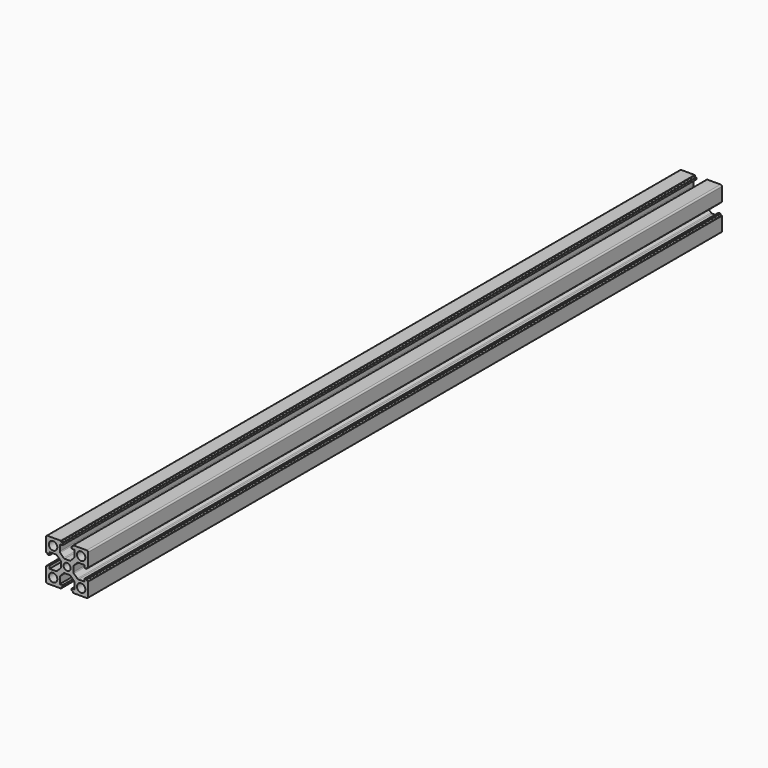
from build123d import *

# Parameters (mm, degrees)
F0_R     = 3
F0_R_2   = 2.5
F1_DEPTH = 565


with BuildPart() as f1:
    # F0 (on Front) → F1 (new body)
    with BuildSketch(Plane.XZ):
        with BuildLine():
            Line((-4.5, 15), (-14, 15))
            ThreePointArc((-14, 15), (-14.707107, 14.707107), (-15, 14))
            Line((-15, 14), (-15, 4.5))
            ThreePointArc((-15, 4.5), (-14.912132, 4.287868), (-14.7, 4.2))
            Line((-14.7, 4.2), (-14.5, 4.2))
            ThreePointArc((-14.5, 4.2), (-14.146447, 4.053553), (-14, 3.7))
            Line((-14, 3.7), (-14, 3.55))
            ThreePointArc((-14, 3.55), (-13.912132, 3.337868), (-13.7, 3.25))
            Line((-13.7, 3.25), (-12.5, 3.25))
            Line((-12.5, 3.25), (-12.5, 5.25))
            Line((-12.5, 5.25), (-8.004644, 5.25))
            ThreePointArc((-8.004644, 5.25), (-7.629545, 5.176985), (-7.309222, 4.968602))
            Line((-7.309222, 4.968602), (-4.804579, 2.544753))
            ThreePointArc((-4.804579, 2.544753), (-4.579288, 2.216394), (-4.5, 1.826151))
            Line((-4.5, 1.826151), (-4.5, -1.826151))
            ThreePointArc((-4.5, -1.826151), (-4.579288, -2.216394), (-4.804579, -2.544753))
            Line((-4.804579, -2.544753), (-7.309222, -4.968602))
            ThreePointArc((-7.309222, -4.968602), (-7.629545, -5.176985), (-8.004644, -5.25))
            Line((-8.004644, -5.25), (-12.5, -5.25))
            Line((-12.5, -5.25), (-12.5, -3.25))
            Line((-12.5, -3.25), (-13.7, -3.25))
            ThreePointArc((-13.7, -3.25), (-13.912132, -3.337868), (-14, -3.55))
            Line((-14, -3.55), (-14, -3.7))
            ThreePointArc((-14, -3.7), (-14.146447, -4.053553), (-14.5, -4.2))
            Line((-14.5, -4.2), (-14.7, -4.2))
            ThreePointArc((-14.7, -4.2), (-14.912132, -4.287868), (-15, -4.5))
            Line((-15, -4.5), (-15, -14))
            ThreePointArc((-15, -14), (-14.707107, -14.707107), (-14, -15))
            Line((-14, -15), (-4.5, -15))
            ThreePointArc((-4.5, -15), (-4.287868, -14.912132), (-4.2, -14.7))
            Line((-4.2, -14.7), (-4.2, -14.5))
            ThreePointArc((-4.2, -14.5), (-4.053553, -14.146447), (-3.7, -14))
            Line((-3.7, -14), (-3.55, -14))
            ThreePointArc((-3.55, -14), (-3.337868, -13.912132), (-3.25, -13.7))
            Line((-3.25, -13.7), (-3.25, -12.5))
            Line((-3.25, -12.5), (-5.25, -12.5))
            Line((-5.25, -12.5), (-5.25, -8.004644))
            ThreePointArc((-5.25, -8.004644), (-5.176985, -7.629545), (-4.968602, -7.309222))
            Line((-4.968602, -7.309222), (-2.544753, -4.804579))
            ThreePointArc((-2.544753, -4.804579), (-2.216394, -4.579288), (-1.826151, -4.5))
            Line((-1.826151, -4.5), (1.826151, -4.5))
            ThreePointArc((1.826151, -4.5), (2.216394, -4.579288), (2.544753, -4.804579))
            Line((2.544753, -4.804579), (4.968602, -7.309222))
            ThreePointArc((4.968602, -7.309222), (5.176985, -7.629545), (5.25, -8.004644))
            Line((5.25, -8.004644), (5.25, -12.5))
            Line((5.25, -12.5), (3.25, -12.5))
            Line((3.25, -12.5), (3.25, -13.7))
            ThreePointArc((3.25, -13.7), (3.337868, -13.912132), (3.55, -14))
            Line((3.55, -14), (3.7, -14))
            ThreePointArc((3.7, -14), (4.053553, -14.146447), (4.2, -14.5))
            Line((4.2, -14.5), (4.2, -14.7))
            ThreePointArc((4.2, -14.7), (4.287868, -14.912132), (4.5, -15))
            Line((4.5, -15), (14, -15))
            ThreePointArc((14, -15), (14.707107, -14.707107), (15, -14))
            Line((15, -14), (15, -4.5))
            ThreePointArc((15, -4.5), (14.912132, -4.287868), (14.7, -4.2))
            Line((14.7, -4.2), (14.5, -4.2))
            ThreePointArc((14.5, -4.2), (14.146447, -4.053553), (14, -3.7))
            Line((14, -3.7), (14, -3.55))
            ThreePointArc((14, -3.55), (13.912132, -3.337868), (13.7, -3.25))
            Line((13.7, -3.25), (12.5, -3.25))
            Line((12.5, -3.25), (12.5, -5.25))
            Line((12.5, -5.25), (8.004644, -5.25))
            ThreePointArc((8.004644, -5.25), (7.629545, -5.176985), (7.309222, -4.968602))
            Line((7.309222, -4.968602), (4.804579, -2.544753))
            ThreePointArc((4.804579, -2.544753), (4.579288, -2.216394), (4.5, -1.826151))
            Line((4.5, -1.826151), (4.5, 1.826151))
            ThreePointArc((4.5, 1.826151), (4.579288, 2.216394), (4.804579, 2.544753))
            Line((4.804579, 2.544753), (7.309222, 4.968602))
            ThreePointArc((7.309222, 4.968602), (7.629545, 5.176985), (8.004644, 5.25))
            Line((8.004644, 5.25), (12.5, 5.25))
            Line((12.5, 5.25), (12.5, 3.25))
            Line((12.5, 3.25), (13.7, 3.25))
            ThreePointArc((13.7, 3.25), (13.912132, 3.337868), (14, 3.55))
            Line((14, 3.55), (14, 3.7))
            ThreePointArc((14, 3.7), (14.146447, 4.053553), (14.5, 4.2))
            Line((14.5, 4.2), (14.7, 4.2))
            ThreePointArc((14.7, 4.2), (14.912132, 4.287868), (15, 4.5))
            Line((15, 4.5), (15, 14))
            ThreePointArc((15, 14), (14.707107, 14.707107), (14, 15))
            Line((14, 15), (4.5, 15))
            ThreePointArc((4.5, 15), (4.287868, 14.912132), (4.2, 14.7))
            Line((4.2, 14.7), (4.2, 14.5))
            ThreePointArc((4.2, 14.5), (4.053553, 14.146447), (3.7, 14))
            Line((3.7, 14), (3.55, 14))
            ThreePointArc((3.55, 14), (3.337868, 13.912132), (3.25, 13.7))
            Line((3.25, 13.7), (3.25, 12.5))
            Line((3.25, 12.5), (5.25, 12.5))
            Line((5.25, 12.5), (5.25, 8.004644))
            ThreePointArc((5.25, 8.004644), (5.176985, 7.629545), (4.968602, 7.309222))
            Line((4.968602, 7.309222), (2.544753, 4.804579))
            ThreePointArc((2.544753, 4.804579), (2.216394, 4.579288), (1.826151, 4.5))
            Line((1.826151, 4.5), (-1.826151, 4.5))
            ThreePointArc((-1.826151, 4.5), (-2.216394, 4.579288), (-2.544753, 4.804579))
            Line((-2.544753, 4.804579), (-4.968602, 7.309222))
            ThreePointArc((-4.968602, 7.309222), (-5.176985, 7.629545), (-5.25, 8.004644))
            Line((-5.25, 8.004644), (-5.25, 12.5))
            Line((-5.25, 12.5), (-3.25, 12.5))
            Line((-3.25, 12.5), (-3.25, 13.7))
            ThreePointArc((-3.25, 13.7), (-3.337868, 13.912132), (-3.55, 14))
            Line((-3.55, 14), (-3.7, 14))
            ThreePointArc((-3.7, 14), (-4.053553, 14.146447), (-4.2, 14.5))
            Line((-4.2, 14.5), (-4.2, 14.7))
            ThreePointArc((-4.2, 14.7), (-4.287868, 14.912132), (-4.5, 15))
        make_face()
        with Locations((-10, -10)):
            Circle(F0_R, mode=Mode.SUBTRACT)
        with Locations((10, -10)):
            Circle(F0_R, mode=Mode.SUBTRACT)
        with Locations((-10, 10)):
            Circle(F0_R, mode=Mode.SUBTRACT)
        Circle(F0_R_2, mode=Mode.SUBTRACT)
        with Locations((10, 10)):
            Circle(F0_R, mode=Mode.SUBTRACT)
    extrude(amount=F1_DEPTH)


solid = f1.part
